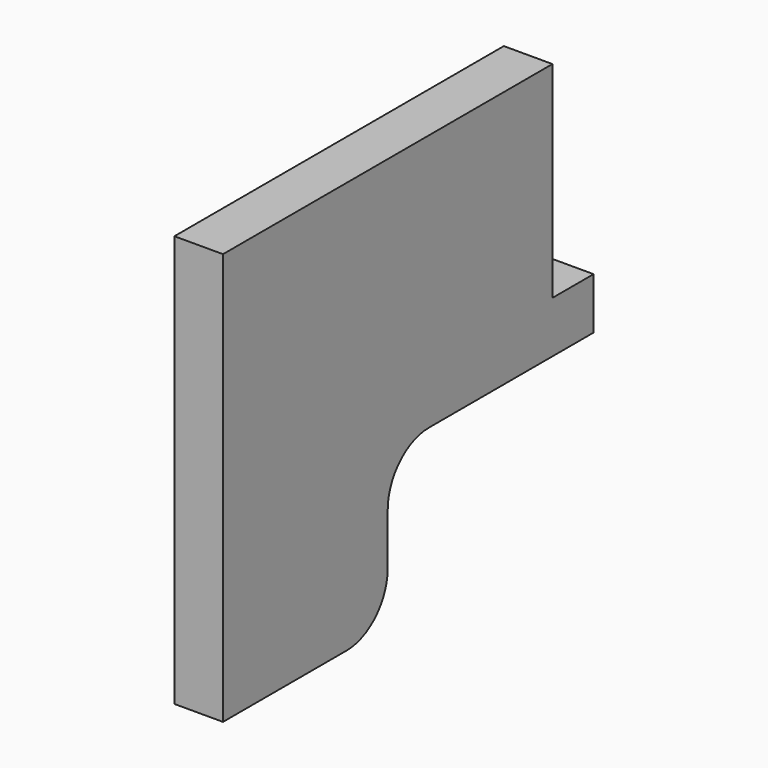
from build123d import *

# Parameters (mm, degrees)
F1_DEPTH = 2.9972


with BuildPart() as f1:
    # F0 (on Right) → F1 (new body, symmetric)
    with BuildSketch(Plane.YZ):
        with BuildLine():
            Line((0, 50.8), (0, 0))
            Line((0, 0), (19.05, 0))
            ThreePointArc((19.05, 0), (23.5401280605, 1.8598719395), (25.4, 6.35))
            Line((25.4, 6.35), (25.4, 12.7))
            ThreePointArc((25.4, 12.7), (27.2598719395, 17.1901280605), (31.75, 19.05))
            Line((31.75, 19.05), (57.15, 19.05))
            Line((57.15, 19.05), (57.15, 25.4))
            Line((57.15, 25.4), (50.8, 25.4))
            Line((50.8, 25.4), (50.8, 50.8))
            Line((50.8, 50.8), (0, 50.8))
        make_face()
    extrude(amount=F1_DEPTH, both=True)


solid = f1.part
